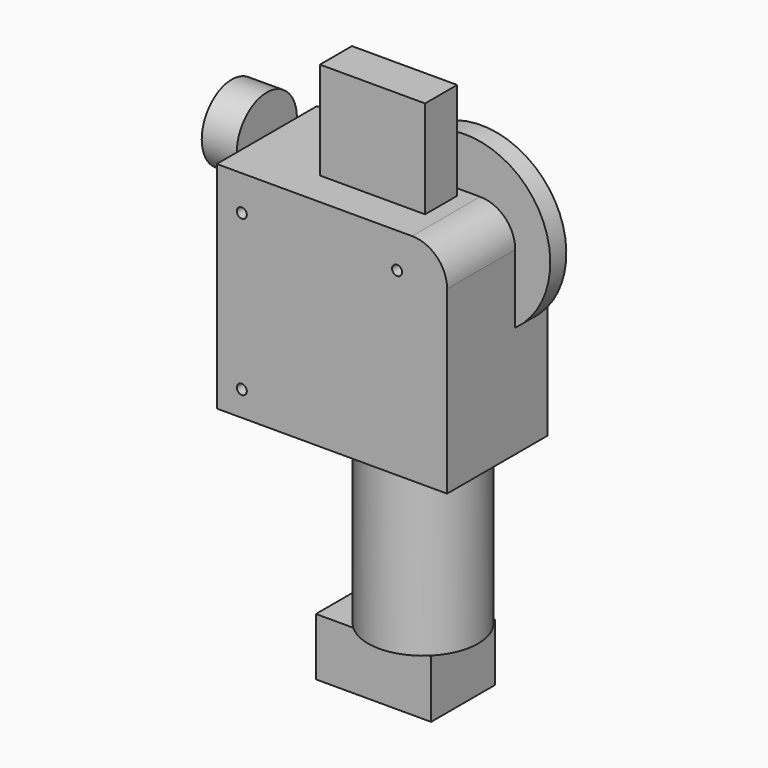
from build123d import *

# Parameters (mm, degrees)
F0_W      = 46
F0_H      = 43
F0_R      = 1
F1_DEPTH  = 25
F4_R      = 7
F3_R      = 17
F3_R_2    = 1
F5_DEPTH  = 4
F7_W      = 21
F7_H      = 19.5
F8_DEPTH  = 8
F10_DEPTH = 7
F11_R     = 11
F12_DEPTH = 32
F13_R     = 3
F14_DEPTH = 11.5


with BuildPart() as f1:
    # F0 (on Front) → F1 (new body)
    with BuildSketch(Plane.XZ):
        with Locations((-23, 21.5)):
            Rectangle(F0_W, F0_H)
        with Locations((-41, 5)):
            Circle(F0_R, mode=Mode.SUBTRACT)
        with Locations((-41, 36)):
            Circle(F0_R, mode=Mode.SUBTRACT)
        with Locations((-10, 36)):
            Circle(F0_R, mode=Mode.SUBTRACT)
    extrude(amount=F1_DEPTH)

    # F4
    f4_edges = [f1.edges().sort_by_distance(p)[0] for p in [
        (0, -12.5, 43),
    ]]
    fillet(f4_edges, radius=F4_R)

    # F3 (on offset) → F5 (join)
    with BuildSketch(Plane(origin=(0, -4, 0), x_dir=(-1, 0, 0), z_dir=(0, 1, 0))):
        with Locations((10, 36)):
            Circle(F3_R)
        with Locations((10, 36)):
            Circle(F3_R_2, mode=Mode.SUBTRACT)
    extrude(amount=-F5_DEPTH)

    # F7 (on offset) → F8 (join)
    with BuildSketch(Plane(origin=(0, -10, 0), x_dir=(-1, 0, 0), z_dir=(0, 1, 0))):
        with Locations((20.5, 52.75)):
            Rectangle(F7_W, F7_H)
    extrude(amount=-F8_DEPTH)

    # F9 (on face) → F10 (join)
    with BuildSketch(Plane(origin=(-46, 0, 0), x_dir=(0, -1, 0), z_dir=(-1, 0, 0))):
        with BuildLine():
            Line((20, 43), (5, 43))
            ThreePointArc((5, 43), (12.5, 35.5), (20, 43))
        make_face()
        with BuildLine():
            ThreePointArc((20, 43), (12.5, 50.5), (5, 43))
            Line((5, 43), (20, 43))
        make_face()
    extrude(amount=F10_DEPTH)

    # F11 (on face) → F12 (join)
    with BuildSketch(Plane(origin=(0, 0, 0), x_dir=(1, 0, 0), z_dir=(0, 0, -1))):
        with Locations((-14, 13.5)):
            Circle(F11_R)
    extrude(amount=F12_DEPTH)

    # F13 (on face) → F14 (join)
    with BuildSketch(Plane(origin=(0, 0, -32), x_dir=(1, 0, 0), z_dir=(0, 0, -1))):
        with BuildLine():
            ThreePointArc((-21.5498344353, 5.5), (-25, 13.5), (-21.5498344353, 21.5))
            Line((-21.5498344353, 21.5), (-29, 21.5))
            Line((-29, 21.5), (-29, 5.5))
            Line((-29, 5.5), (-21.5498344353, 5.5))
        make_face()
        with BuildLine():
            Line((-6, 5.9501655647), (-6, 21.0498344353))
            ThreePointArc((-6, 21.0498344353), (-6.2218254069, 21.2781745931), (-6.4501655647, 21.5))
            Line((-6.4501655647, 21.5), (-21.5498344353, 21.5))
            ThreePointArc((-21.5498344353, 21.5), (-25, 13.5), (-21.5498344353, 5.5))
            Line((-21.5498344353, 5.5), (-6.4501655647, 5.5))
            ThreePointArc((-6.4501655647, 5.5), (-6.2218254069, 5.7218254069), (-6, 5.9501655647))
        make_face()
        with Locations((-14, 13.5)):
            Circle(F13_R, mode=Mode.SUBTRACT)
        with BuildLine():
            Line((-6, 5.5), (-6, 5.9501655647))
            ThreePointArc((-6, 5.9501655647), (-6.2218254069, 5.7218254069), (-6.4501655647, 5.5))
            Line((-6.4501655647, 5.5), (-6, 5.5))
        make_face()
        with BuildLine():
            ThreePointArc((-6.4501655647, 21.5), (-6.2218254069, 21.2781745931), (-6, 21.0498344353))
            Line((-6, 21.0498344353), (-6, 21.5))
            Line((-6, 21.5), (-6.4501655647, 21.5))
        make_face()
    extrude(amount=F14_DEPTH)


solid = f1.part
